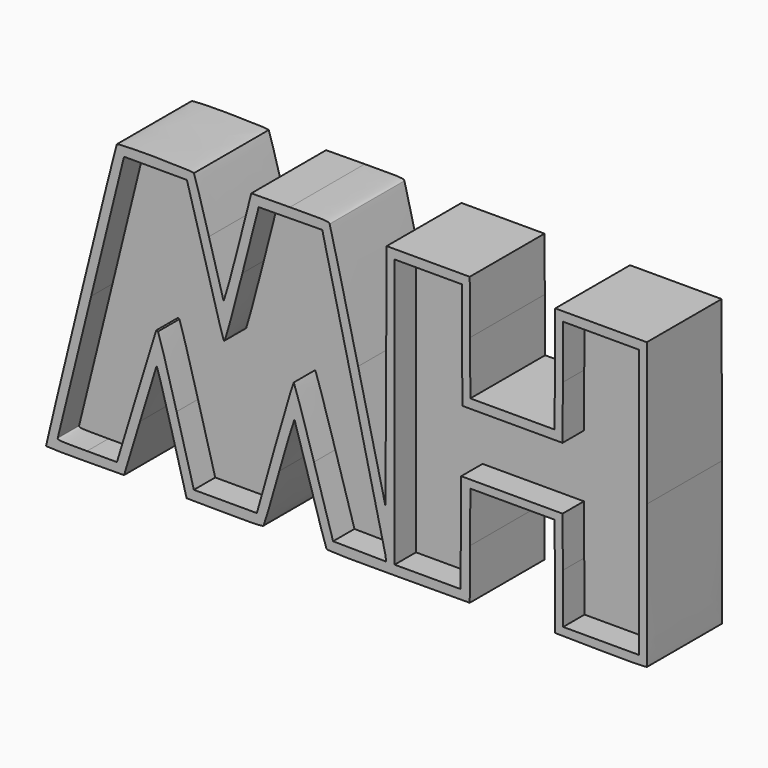
from build123d import *

# Parameters (mm, degrees)
F1_DEPTH = 17.78
F2_DEPTH = 12.7


with BuildPart() as f1:
    # F0 (on Front) → F1 (new body)
    with BuildSketch(Plane.XZ):
        with BuildLine():
            add(Edge.make_bspline(
                [(-60.3233699852, -22.2858070067), (-60.4356897884, -22.1040696952), (-47.1351021569, 32.1905158147), (-46.8752746543, 32.6109253262)],
                knots=[0, 0, 0, 0, 1, 1, 1, 1], degree=3))
            add(Edge.make_bspline(
                [(-52.8512799886, -22.4074903086), (-56.8987234408, -22.4412170036), (-60.261162808, -22.3864655765), (-60.3233699852, -22.2858070067)],
                knots=[0, 0, 0, 0, 1, 1, 1, 1], degree=3))
            Line((-52.8512799886, -22.4074903086), (-45.4922951358, -22.3461662561))
            Line((-45.4922951358, -22.3461662561), (-42.4538018399, -12.3562756308))
            add(Edge.make_bspline(
                [(-39.3083120306, -2.0532596077), (-39.3671619537, -2.2254792667), (-40.7826309107, -6.8618368606), (-42.4538018399, -12.3562756308)],
                knots=[0, 0, 0, 0, 1, 1, 1, 1], degree=3))
            add(Edge.make_bspline(
                [(-36.397039301, -12.043150233), (-37.9393898394, -6.376488736), (-39.2494621076, -1.8810384148), (-39.3083120306, -2.0532596077)],
                knots=[0, 0, 0, 0, 1, 1, 1, 1], degree=3))
            Line((-36.397039301, -12.043150233), (-33.5927630849, -22.3461662561))
            Line((-33.5927630849, -22.3461662561), (-26.3877989278, -22.4075133166))
            add(Edge.make_bspline(
                [(-18.9531088572, -22.1751905642), (-19.1313366782, -22.4030252181), (-20.7980241106, -22.4551061806), (-26.3877989278, -22.4075133166)],
                knots=[0, 0, 0, 0, 1, 1, 1, 1], degree=3))
            add(Edge.make_bspline(
                [(-15.9657102466, -12.0718734498), (-17.4824298466, -17.4671783152), (-18.8267564604, -22.0136727039), (-18.9531088572, -22.1751905642)],
                knots=[0, 0, 0, 0, 1, 1, 1, 1], degree=3))
            add(Edge.make_bspline(
                [(-13.0609779312, -2.5466298632), (-13.1418618716, -2.3902090471), (-14.4489921804, -6.6765701183), (-15.9657102466, -12.0718734498)],
                knots=[0, 0, 0, 0, 1, 1, 1, 1], degree=3))
            add(Edge.make_bspline(
                [(-10.0625032579, -12.3562756308), (-11.6307807713, -7.1173931154), (-12.9800970585, -2.7030522132), (-13.0609779312, -2.5466298632)],
                knots=[0, 0, 0, 0, 1, 1, 1, 1], degree=3))
            add(Edge.make_bspline(
                [(-6.9792562882, -22.1737824732), (-7.1067652217, -22.0130376825), (-8.4942257445, -17.595161214), (-10.0625032579, -12.3562756308)],
                knots=[0, 0, 0, 0, 1, 1, 1, 1], degree=3))
            add(Edge.make_bspline(
                [(6.7554034028, -22.4061052256), (-3.8726715131, -22.453285479), (-6.796781186, -22.4037890845), (-6.9792562882, -22.1737824732)],
                knots=[0, 0, 0, 0, 1, 1, 1, 1], degree=3))
            Line((6.7554034028, -22.4061052256), (20.2582281114, -22.3461662561))
            Line((20.2582281114, -22.3461662561), (20.3188849313, -12.7628412145))
            Line((20.3188849313, -12.7628412145), (20.3795448188, -3.1795177067))
            Line((20.3795448188, -3.1795177067), (28.3895045061, -3.1795177067))
            Line((28.3895045061, -3.1795177067), (36.3994626595, -3.1795177067))
            Line((36.3994626595, -3.1795177067), (36.4601516905, -12.6466813721))
            Line((36.4601516905, -12.6466813721), (36.5208299845, -22.1138435037))
            Line((36.5208299845, -22.1138435037), (45.204590383, -22.2300048799))
            add(Edge.make_bspline(
                [(53.9765006558, -22.1138435037), (53.9188103372, -22.2658820582), (50.8874771383, -22.3060233902), (45.204590383, -22.2300048799)],
                knots=[0, 0, 0, 0, 1, 1, 1, 1], degree=3))
            add(Edge.make_bspline(
                [(54.004858812, 5.1841105838), (54.0377434133, -9.7019871873), (54.0249739602, -21.9860661432), (53.9765006558, -22.1138435037)],
                knots=[0, 0, 0, 0, 1, 1, 1, 1], degree=3))
            Line((54.004858812, 5.1841105838), (53.9450578907, 32.2497419189))
            Line((53.9450578907, 32.2497419189), (45.2329485392, 32.2497419189))
            Line((45.2329485392, 32.2497419189), (36.5208299845, 32.2497419189))
            Line((36.5208299845, 32.2497419189), (36.4603127467, 22.0856105714))
            Line((36.4603127467, 22.0856105714), (36.3997863057, 11.9214780735))
            Line((36.3997863057, 11.9214780735), (28.3895321157, 11.9214780735))
            Line((28.3895321157, 11.9214780735), (20.3792733241, 11.9214780735))
            Line((20.3792733241, 11.9214780735), (20.3187499508, 22.0856105714))
            Line((20.3187499508, 22.0856105714), (20.2582281114, 32.2497419189))
            Line((20.2582281114, 32.2497419189), (12.3592453257, 32.2497419189))
            Line((12.3592453257, 32.2497419189), (4.4602640739, 32.2497419189))
            Line((4.4602640739, 32.2497419189), (4.3441011638, 10.4541889117))
            Line((4.3441011638, 10.4541889117), (4.2279397876, -11.3413640955))
            Line((4.2279397876, -11.3413640955), (-0.9720315582, 10.3380275355))
            add(Edge.make_bspline(
                [(-6.3834543111, 32.4272344418), (-6.2671564206, 32.2018369127), (-3.8320163352, 22.261692319), (-0.9720315582, 10.3380275355)],
                knots=[0, 0, 0, 0, 1, 1, 1, 1], degree=3))
            add(Edge.make_bspline(
                [(-13.9407740803, 32.7757187621), (-7.1213170297, 32.8326544176), (-6.5797541678, 32.8076818921), (-6.3834543111, 32.4272344418)],
                knots=[0, 0, 0, 0, 1, 1, 1, 1], degree=3))
            Line((-13.9407740803, 32.7757187621), (-21.2866439761, 32.7143879989))
            Line((-21.2866439761, 32.7143879989), (-23.856977675, 22.6648910618))
            add(Edge.make_bspline(
                [(-26.5730564669, 13.0234857156), (-26.4897060664, 12.7901015263), (-25.3269373015, 16.9176443453), (-23.856977675, 22.6648910618)],
                knots=[0, 0, 0, 0, 1, 1, 1, 1], degree=3))
            add(Edge.make_bspline(
                [(-29.3507123997, 22.840660092), (-27.9031610544, 17.6656641477), (-26.6532179554, 13.2479366562), (-26.5730564669, 13.0234857156)],
                knots=[0, 0, 0, 0, 1, 1, 1, 1], degree=3))
            add(Edge.make_bspline(
                [(-32.2012224725, 32.5401457429), (-32.0809917438, 32.3804236589), (-30.7982606772, 28.0156550776), (-29.3507123997, 22.840660092)],
                knots=[0, 0, 0, 0, 1, 1, 1, 1], degree=3))
            add(Edge.make_bspline(
                [(-46.8752746543, 32.6109253262), (-46.6553733586, 32.9667302245), (-32.4708366298, 32.8983110727), (-32.2012224725, 32.5401457429)],
                knots=[0, 0, 0, 0, 1, 1, 1, 1], degree=3))
        make_face()
        with BuildLine():
            add(Edge.make_bspline(
                [(-43.1700446856, -8.464865693), (-41.1480918931, -1.7884832709), (-39.4457082788, 3.7615290798), (-39.3869718621, 3.8684964497)],
                knots=[0, 0, 0, 0, 1, 1, 1, 1], degree=3))
            Line((-43.1700446856, -8.464865693), (-46.846326534, -20.603744079))
            Line((-46.846326534, -20.603744079), (-52.5256531811, -20.603744079))
            add(Edge.make_bspline(
                [(-58.0998952815, -20.1971784953), (-58.1978517507, -20.5761620602), (-57.8196851624, -20.603744079), (-52.5256531811, -20.603744079)],
                knots=[0, 0, 0, 0, 1, 1, 1, 1], degree=3))
            add(Edge.make_bspline(
                [(-51.7483681312, 5.5906761675), (-55.1839116591, -8.3690326727), (-58.0421002764, -19.9735665807), (-58.0998952815, -20.1971784953)],
                knots=[0, 0, 0, 0, 1, 1, 1, 1], degree=3))
            Line((-51.7483681312, 5.5906761675), (-45.5019247606, 30.9719654384))
            Line((-45.5019247606, 30.9719654384), (-39.5312536448, 30.9719654384))
            Line((-39.5312536448, 30.9719654384), (-33.5605825291, 30.9719654384))
            Line((-33.5605825291, 30.9719654384), (-33.3214079872, 30.2169155344))
            add(Edge.make_bspline(
                [(-29.9288886967, 18.1941990997), (-31.663228922, 24.3914160367), (-33.1898649802, 29.8016381542), (-33.3214079872, 30.2169155344)],
                knots=[0, 0, 0, 0, 1, 1, 1, 1], degree=3))
            add(Edge.make_bspline(
                [(-26.3018133416, 6.5058433184), (-26.6062923241, 6.201362802), (-26.2629819331, 5.0950281176), (-29.9288886967, 18.1941990997)],
                knots=[0, 0, 0, 0, 1, 1, 1, 1], degree=3))
            add(Edge.make_bspline(
                [(-22.9776969056, 18.7997284857), (-24.6751644721, 12.1688894879), (-26.1710142607, 6.6366408654), (-26.3018133416, 6.5058433184)],
                knots=[0, 0, 0, 0, 1, 1, 1, 1], degree=3))
            Line((-22.9776969056, 18.7997284857), (-19.8913975381, 30.8558038705))
            Line((-19.8913975381, 30.8558038705), (-13.8335367495, 30.9177038905))
            Line((-13.8335367495, 30.9177038905), (-7.775675961, 30.9796041023))
            Line((-7.775675961, 30.9796041023), (-7.4161157697, 29.4076044659))
            add(Edge.make_bspline(
                [(-1.5013940321, 4.719465079), (-4.5567338029, 17.4333413953), (-7.2183587382, 28.5430028156), (-7.4161157697, 29.4076044659)],
                knots=[0, 0, 0, 0, 1, 1, 1, 1], degree=3))
            add(Edge.make_bspline(
                [(4.2138573432, -19.5047811654), (4.1258087042, -18.8953231594), (1.5539472726, -7.9944114291), (-1.5013940321, 4.719465079)],
                knots=[0, 0, 0, 0, 1, 1, 1, 1], degree=3))
            Line((4.2138573432, -19.5047811654), (4.3739441044, -20.6128874676))
            Line((4.3739441044, -20.6128874676), (-0.6782789163, -20.5502350852))
            Line((-0.6782789163, -20.5502350852), (-5.7305019371, -20.4875827028))
            Line((-5.7305019371, -20.4875827028), (-9.3675489696, -8.4067857718))
            add(Edge.make_bspline(
                [(-13.2068288612, 3.6740111592), (-13.0956019391, 3.6740111592), (-11.3679248375, -1.7623476898), (-9.3675489696, -8.4067857718)],
                knots=[0, 0, 0, 0, 1, 1, 1, 1], degree=3))
            add(Edge.make_bspline(
                [(-16.8195226676, -8.4067857718), (-14.9437674593, -1.7623476898), (-13.3180542494, 3.6740111592), (-13.2068288612, 3.6740111592)],
                knots=[0, 0, 0, 0, 1, 1, 1, 1], degree=3))
            Line((-16.8195226676, -8.4067857718), (-20.2299882165, -20.4875827028))
            Line((-20.2299882165, -20.4875827028), (-26.2227439673, -20.4875827028))
            Line((-26.2227439673, -20.4875827028), (-32.2154981843, -20.4875827028))
            Line((-32.2154981843, -20.4875827028), (-35.4927856227, -8.4673551612))
            add(Edge.make_bspline(
                [(-39.0251262071, 3.8079270604), (-38.8848462866, 3.6676471398), (-37.2952924868, -1.8562296298), (-35.4927856227, -8.4673551612)],
                knots=[0, 0, 0, 0, 1, 1, 1, 1], degree=3))
            add(Edge.make_bspline(
                [(-39.3869718621, 3.8684964497), (-39.3282369791, 3.9754638196), (-39.1654076615, 3.9482069809), (-39.0251262071, 3.8079270604)],
                knots=[0, 0, 0, 0, 1, 1, 1, 1], degree=3))
        make_face(mode=Mode.SUBTRACT)
        Polygon((18.6319673106, -1.6694182821), (18.5712798134, -11.1365804136), (18.5105938501, -20.603744079), (12.2404779073, -20.603744079), (5.9703634985, -20.603744079), (5.9703634985, 4.9517878314), (5.9703634985, 30.5073193584), (12.3568034075, 30.5073193584), (18.7432448503, 30.5073193584), (18.8037682236, 20.3431874357), (18.864290063, 10.1790558965), (28.3895321157, 10.1790558965), (37.9147711007, 10.1790558965), (37.9752975417, 20.3431874357), (38.0358147795, 30.5073193584), (45.2353935252, 30.5073193584), (52.4349646015, 30.5073193584), (52.4349646015, 4.9517878314), (52.4349646015, -20.603744079), (45.2355561152, -20.603744079), (38.0361491628, -20.603744079), (37.9754601317, -11.1365804136), (37.9147711007, -1.6694182821), (28.2733692056, -1.6694182821), align=None, mode=Mode.SUBTRACT)
    extrude(amount=F1_DEPTH)

    # F0 (on Front) → F2 (join)
    with BuildSketch(Plane.XZ):
        with BuildLine():
            Line((-46.846326534, -20.603744079), (-43.1700446856, -8.464865693))
            add(Edge.make_bspline(
                [(-43.1700446856, -8.464865693), (-41.1480918931, -1.7884832709), (-39.4457082788, 3.7615290798), (-39.3869718621, 3.8684964497)],
                knots=[0, 0, 0, 0, 1, 1, 1, 1], degree=3))
            add(Edge.make_bspline(
                [(-39.3869718621, 3.8684964497), (-39.3282369791, 3.9754638196), (-39.1654076615, 3.9482069809), (-39.0251262071, 3.8079270604)],
                knots=[0, 0, 0, 0, 1, 1, 1, 1], degree=3))
            add(Edge.make_bspline(
                [(-39.0251262071, 3.8079270604), (-38.8848462866, 3.6676471398), (-37.2952924868, -1.8562296298), (-35.4927856227, -8.4673551612)],
                knots=[0, 0, 0, 0, 1, 1, 1, 1], degree=3))
            Line((-35.4927856227, -8.4673551612), (-32.2154981843, -20.4875827028))
            Line((-32.2154981843, -20.4875827028), (-26.2227439673, -20.4875827028))
            Line((-26.2227439673, -20.4875827028), (-20.2299882165, -20.4875827028))
            Line((-20.2299882165, -20.4875827028), (-16.8195226676, -8.4067857718))
            add(Edge.make_bspline(
                [(-16.8195226676, -8.4067857718), (-14.9437674593, -1.7623476898), (-13.3180542494, 3.6740111592), (-13.2068288612, 3.6740111592)],
                knots=[0, 0, 0, 0, 1, 1, 1, 1], degree=3))
            add(Edge.make_bspline(
                [(-13.2068288612, 3.6740111592), (-13.0956019391, 3.6740111592), (-11.3679248375, -1.7623476898), (-9.3675489696, -8.4067857718)],
                knots=[0, 0, 0, 0, 1, 1, 1, 1], degree=3))
            Line((-9.3675489696, -8.4067857718), (-5.7305019371, -20.4875827028))
            Line((-5.7305019371, -20.4875827028), (-0.6782789163, -20.5502350852))
            Line((-0.6782789163, -20.5502350852), (4.3739441044, -20.6128874676))
            Line((4.3739441044, -20.6128874676), (4.2138573432, -19.5047811654))
            add(Edge.make_bspline(
                [(4.2138573432, -19.5047811654), (4.1258087042, -18.8953231594), (1.5539472726, -7.9944114291), (-1.5013940321, 4.719465079)],
                knots=[0, 0, 0, 0, 1, 1, 1, 1], degree=3))
            add(Edge.make_bspline(
                [(-1.5013940321, 4.719465079), (-4.5567338029, 17.4333413953), (-7.2183587382, 28.5430028156), (-7.4161157697, 29.4076044659)],
                knots=[0, 0, 0, 0, 1, 1, 1, 1], degree=3))
            Line((-7.4161157697, 29.4076044659), (-7.775675961, 30.9796041023))
            Line((-7.775675961, 30.9796041023), (-13.8335367495, 30.9177038905))
            Line((-13.8335367495, 30.9177038905), (-19.8913975381, 30.8558038705))
            Line((-19.8913975381, 30.8558038705), (-22.9776969056, 18.7997284857))
            add(Edge.make_bspline(
                [(-22.9776969056, 18.7997284857), (-24.6751644721, 12.1688894879), (-26.1710142607, 6.6366408654), (-26.3018133416, 6.5058433184)],
                knots=[0, 0, 0, 0, 1, 1, 1, 1], degree=3))
            add(Edge.make_bspline(
                [(-26.3018133416, 6.5058433184), (-26.6062923241, 6.201362802), (-26.2629819331, 5.0950281176), (-29.9288886967, 18.1941990997)],
                knots=[0, 0, 0, 0, 1, 1, 1, 1], degree=3))
            add(Edge.make_bspline(
                [(-29.9288886967, 18.1941990997), (-31.663228922, 24.3914160367), (-33.1898649802, 29.8016381542), (-33.3214079872, 30.2169155344)],
                knots=[0, 0, 0, 0, 1, 1, 1, 1], degree=3))
            Line((-33.3214079872, 30.2169155344), (-33.5605825291, 30.9719654384))
            Line((-33.5605825291, 30.9719654384), (-39.5312536448, 30.9719654384))
            Line((-39.5312536448, 30.9719654384), (-45.5019247606, 30.9719654384))
            Line((-45.5019247606, 30.9719654384), (-51.7483681312, 5.5906761675))
            add(Edge.make_bspline(
                [(-51.7483681312, 5.5906761675), (-55.1839116591, -8.3690326727), (-58.0421002764, -19.9735665807), (-58.0998952815, -20.1971784953)],
                knots=[0, 0, 0, 0, 1, 1, 1, 1], degree=3))
            add(Edge.make_bspline(
                [(-58.0998952815, -20.1971784953), (-58.1978517507, -20.5761620602), (-57.8196851624, -20.603744079), (-52.5256531811, -20.603744079)],
                knots=[0, 0, 0, 0, 1, 1, 1, 1], degree=3))
            Line((-52.5256531811, -20.603744079), (-46.846326534, -20.603744079))
        make_face()
        Polygon((18.5105938501, -20.603744079), (18.5712798134, -11.1365804136), (18.6319673106, -1.6694182821), (28.2733692056, -1.6694182821), (37.9147711007, -1.6694182821), (37.9754601317, -11.1365804136), (38.0361491628, -20.603744079), (45.2355561152, -20.603744079), (52.4349646015, -20.603744079), (52.4349646015, 4.9517878314), (52.4349646015, 30.5073193584), (45.2353935252, 30.5073193584), (38.0358147795, 30.5073193584), (37.9752975417, 20.3431874357), (37.9147711007, 10.1790558965), (28.3895321157, 10.1790558965), (18.864290063, 10.1790558965), (18.8037682236, 20.3431874357), (18.7432448503, 30.5073193584), (12.3568034075, 30.5073193584), (5.9703634985, 30.5073193584), (5.9703634985, 4.9517878314), (5.9703634985, -20.603744079), (12.2404779073, -20.603744079), align=None)
    extrude(amount=F2_DEPTH)


solid = f1.part
